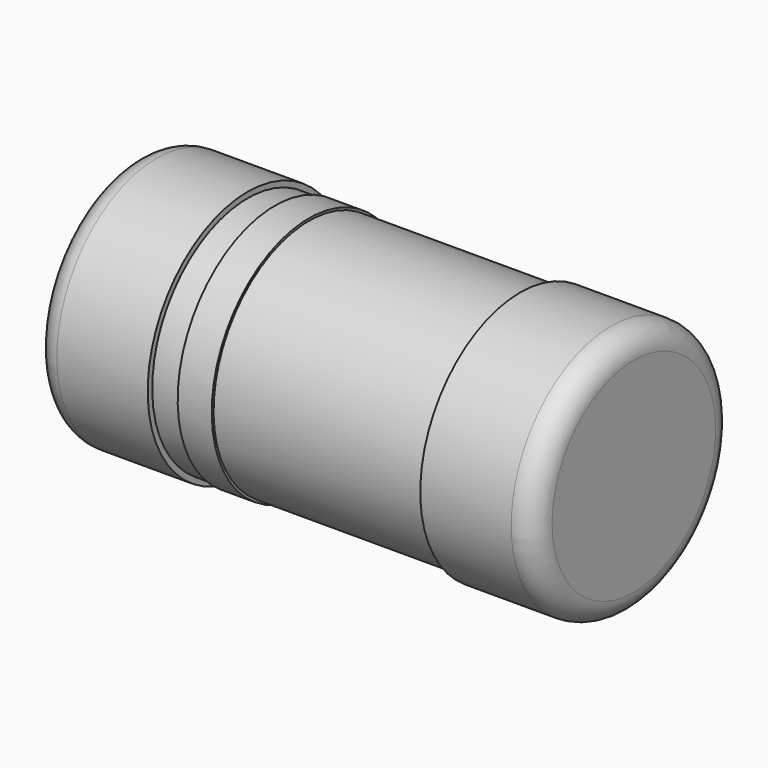
from build123d import *

# Parameters (mm, degrees)
SKETCH_W    = 1.7
SKETCH_H    = 0.525
SKETCH002_W = 0.15
SKETCH002_H = 0.02


with BuildPart() as revolution001:
    # Sketch001 → Revolution001 (revolve)
    with BuildSketch(Plane.XZ):
        with BuildLine():
            Line((-1, 0), (-0.6, 0))
            Line((-0.6, 0), (-0.6, 0.13))
            Line((-0.6, 0.13), (0.6, 0.13))
            Line((0.6, 0), (0.6, 0.13))
            Line((0.6, 0), (1, 0))
            ThreePointArc((1, 0), (1.070711, 0.029289), (1.1, 0.1))
            Line((1.1, 0.1), (1.1, 0.55))
            Line((-1.1, 0.55), (1.1, 0.55))
            Line((-1.1, 0.55), (-1.1, 0.1))
            ThreePointArc((-1.1, 0.1), (-1.070711, 0.029289), (-1, 0))
        make_face()
    revolve(axis=Axis((-8.9, 0, 0.55), (1, 0, 0)))


with BuildPart() as revolution:
    # Sketch → Revolution (revolve)
    with BuildSketch(Plane.XZ):
        with Locations((0, 0.2875)):
            Rectangle(SKETCH_W, SKETCH_H)
    revolve(axis=Axis((-15.061842, 0, 0.55), (1, 0, 0)))


with BuildPart() as obj1:
    # Sketch002 → Revolution002 (revolve)
    with BuildSketch(Plane.XZ):
        with Locations((-0.405, 0.025)):
            Rectangle(SKETCH002_W, SKETCH002_H)
    revolve(axis=Axis((-15.061842, 0, 0.55), (1, 0, 0)))

    # Fusion: union Revolution001, Revolution
    add(revolution001.part)
    add(revolution.part)


solid = obj1.part
